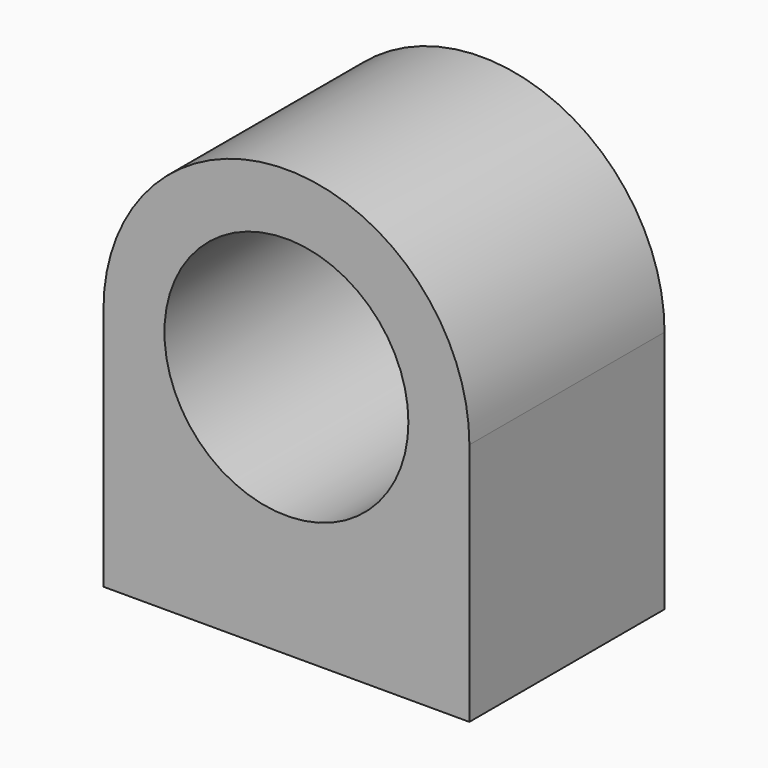
from build123d import *

# Parameters (mm, degrees)
F1_DEPTH = 12.7
F2_R     = 12.7
F3_DEPTH = 25.401
F4_R     = 3.175
F5_DEPTH = 12.7


with BuildPart() as f1:
    # F0 (on Front) → F1 (new body, symmetric)
    with BuildSketch(Plane.XZ):
        with BuildLine():
            Line((-19.05, 0), (-19.05, -25.4))
            Line((-19.05, -25.4), (19.05, -25.4))
            Line((19.05, -25.4), (19.05, 0))
            ThreePointArc((19.05, 0), (0, 19.05), (-19.05, 0))
        make_face()
    extrude(amount=F1_DEPTH, both=True)

    # F2 (on face) → F3 (cut, through all)
    with BuildSketch(Plane.XZ.offset(12.7)):
        Circle(F2_R)
    extrude(amount=-F3_DEPTH, mode=Mode.SUBTRACT)

    # F4 (on face) → F5 (cut)
    with BuildSketch(Plane(origin=(0, 0, -25.4), x_dir=(1, 0, 0), z_dir=(0, 0, -1))):
        with Locations((-12.7, 0)):
            Circle(F4_R)
        with Locations((12.7, 0)):
            Circle(F4_R)
    extrude(amount=-F5_DEPTH, mode=Mode.SUBTRACT)


solid = f1.part
